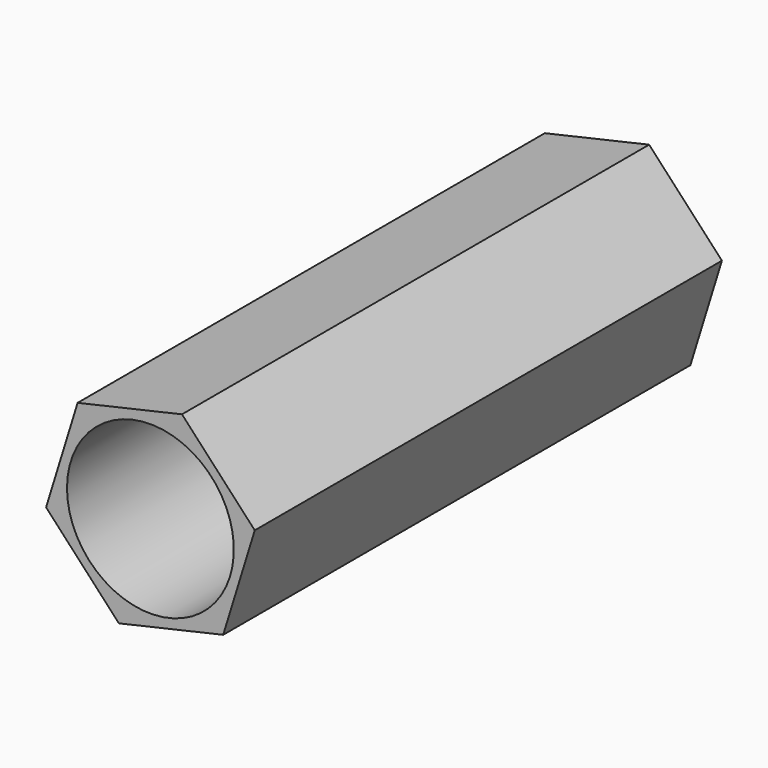
from build123d import *

# Parameters (mm, degrees)
F1_DEPTH = 35
F2_R     = 5
F3_DEPTH = 35.001


with BuildPart() as f1:
    # F0 (on Front) → F1 (new body)
    with BuildSketch(Plane.XZ):
        Polygon((6.253608, 1.427033), (1.890957, 6.1293), (-4.362651, 4.702267), (-6.253608, -1.427033), (-1.890957, -6.1293), (4.362651, -4.702267), align=None)
    extrude(amount=F1_DEPTH)

    # F2 (on face) → F3 (cut, through all)
    with BuildSketch(Plane(origin=(0, 0, 0), x_dir=(-1, 0, 0), z_dir=(0, 1, 0))):
        Circle(F2_R)
    extrude(amount=-F3_DEPTH, mode=Mode.SUBTRACT)


solid = f1.part
